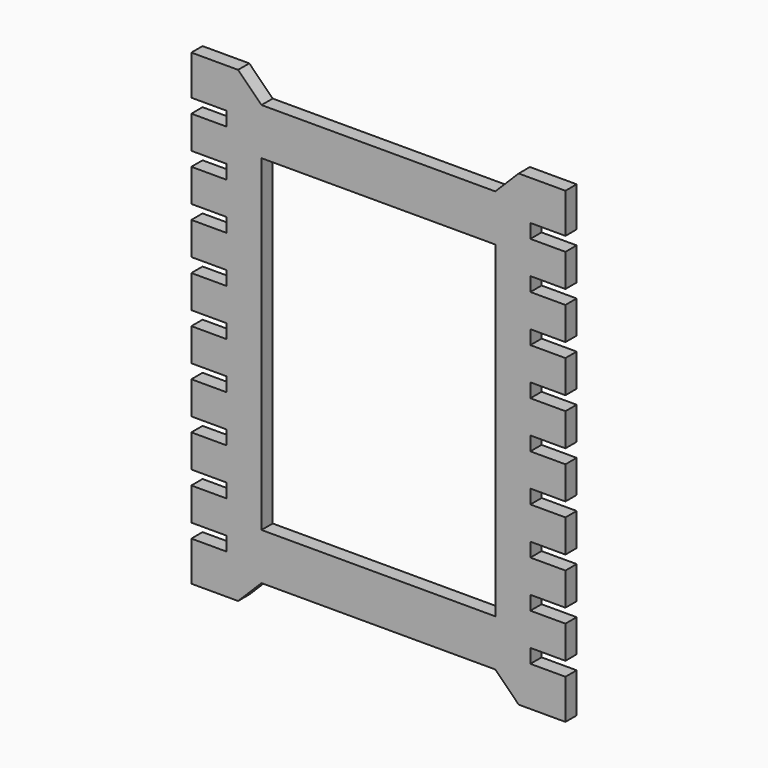
from build123d import *

# Parameters (mm, degrees)
SKETCH005_W            = 50
SKETCH005_H            = 70
PAD003_DEPTH           = 3
SKETCH006_W            = 10
SKETCH006_H            = 3
POCKET002_DEPTH        = 5
LINEARPATTERN003_COUNT = 9
LINEARPATTERN003_PITCH = 10


with BuildPart() as part:
    # Sketch005 → Pad003 (new body)
    with BuildSketch(Plane.XZ):
        Polygon((-40, 50), (-30, 50), (-25, 45), (25, 45), (30, 50), (40, 50), (40, -50), (30, -50), (25, -45), (-25, -45), (-30, -50), (-40, -50), align=None)
        Rectangle(SKETCH005_W, SKETCH005_H, mode=Mode.SUBTRACT)
    extrude(amount=PAD003_DEPTH)

    # Sketch006 → Pocket002 (cut)
    with BuildSketch(Plane(origin=(0, 0, -40), x_dir=(1, 0, 0), z_dir=(0, -1, 0))):
        with Locations((-37.5, 0)):
            Rectangle(SKETCH006_W, SKETCH006_H)
        with Locations((37.5, 0)):
            Rectangle(SKETCH006_W, SKETCH006_H)
    pocket002 = extrude(amount=POCKET002_DEPTH, mode=Mode.SUBTRACT)

    # LinearPattern003: Pocket002 ×9
    with Locations(*[(0, 0, i * LINEARPATTERN003_PITCH) for i in range(1, LINEARPATTERN003_COUNT)]):
        add(pocket002, mode=Mode.SUBTRACT)


with BuildPart() as part_1:
    # Body002 placement: moved
    add(part.part.moved(Location((0, 11.5, 10))))


with BuildPart() as part_2:
    # Body003 placement: moved
    add(part_1.part.moved(Location((0, 200, 0))))


solid = part_2.part
